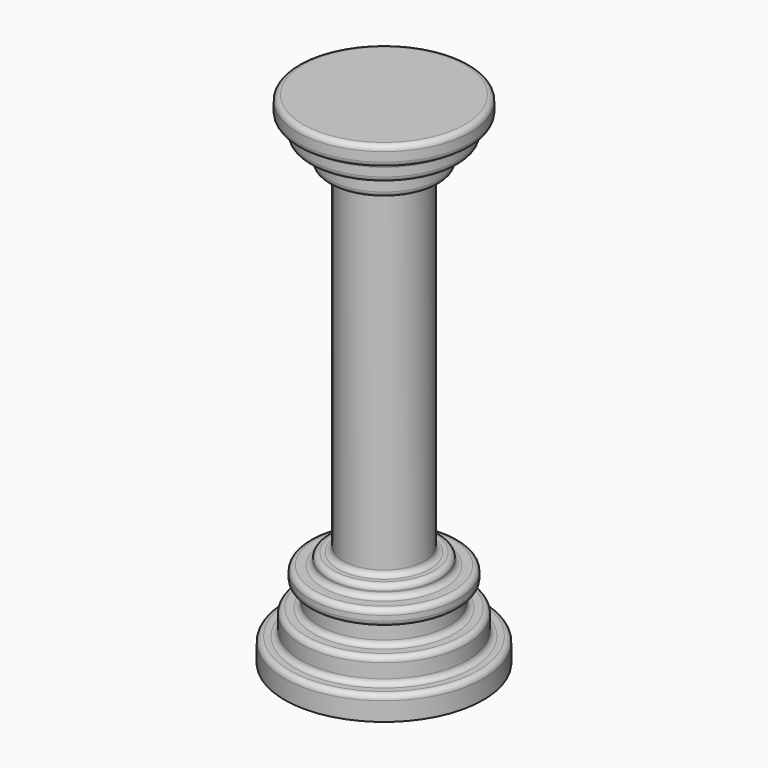
from build123d import *

# Parameters (mm, degrees)
F2_W     = 1.286267
F2_H     = 75.477414
F2_W_2   = 1.280746
F2_H_2   = 75.511615
F2_W_3   = 1.286266
F2_H_3   = 75.496822
F2_H_4   = 75.49404
F2_H_5   = 75.518996
F2_H_6   = 75.542745
F3_DEPTH = 21.082


with BuildPart() as f1:
    # F0 (on Right) → F1 (revolve)
    with BuildSketch(Plane.YZ):
        with BuildLine():
            Line((0, -63.062064), (0, -56.361724))
            Line((0, -56.361724), (0, 43.267588))
            Line((0, 43.267588), (0, 55.967588))
            Line((0, 55.967588), (-12.7, 55.967588))
            Line((-12.7, 55.967588), (-19.225174, 55.967588))
            ThreePointArc((-19.225174, 55.967588), (-20.1232, 55.595614), (-20.495174, 54.697588))
            Line((-20.495174, 54.697588), (-20.495174, 52.507926))
            ThreePointArc((-20.495174, 52.507926), (-20.1232, 51.6099), (-19.225174, 51.237926))
            Line((-19.225174, 51.237926), (-19.006209, 51.237926))
            ThreePointArc((-19.006209, 51.237926), (-18.108183, 50.865951), (-17.736209, 49.967926))
            Line((-17.736209, 49.967926), (-17.736209, 47.975343))
            ThreePointArc((-17.736209, 47.975343), (-17.364234, 47.077317), (-16.466209, 46.705343))
            Line((-16.466209, 46.705343), (-14.473621, 46.705343))
            ThreePointArc((-14.473621, 46.705343), (-13.575595, 46.333368), (-13.203621, 45.435343))
            Line((-13.203621, 45.435343), (-13.203621, 42.457413))
            ThreePointArc((-13.203621, 42.457413), (-12.831647, 41.559387), (-11.933621, 41.187413))
            Line((-11.933621, 41.187413), (-10.926379, 41.187413))
            ThreePointArc((-10.926379, 41.187413), (-10.028353, 40.815439), (-9.656379, 39.917413))
            Line((-9.656379, 39.917413), (-9.656379, -38.537931))
            ThreePointArc((-9.656379, -38.537931), (-10.028353, -39.435956), (-10.926379, -39.807931))
            Line((-10.926379, -39.807931), (-11.933621, -39.807931))
            ThreePointArc((-11.933621, -39.807931), (-12.831647, -40.179905), (-13.203621, -41.077931))
            Line((-13.203621, -41.077931), (-13.203621, -41.296895))
            ThreePointArc((-13.203621, -41.296895), (-13.575595, -42.194921), (-14.473621, -42.566895))
            Line((-14.473621, -42.566895), (-16.466209, -42.566895))
            ThreePointArc((-16.466209, -42.566895), (-17.364234, -42.93887), (-17.736209, -43.836895))
            Line((-17.736209, -43.836895), (-17.736209, -45.041207))
            ThreePointArc((-17.736209, -45.041207), (-17.364234, -45.939233), (-16.466209, -46.311207))
            Line((-16.466209, -46.311207), (-15.469915, -46.311207))
            Line((-15.469915, -46.311207), (-15.469915, -50.165001))
            ThreePointArc((-15.469915, -50.165001), (-15.841889, -51.063027), (-16.739915, -51.435001))
            Line((-16.739915, -51.435001), (-18.436897, -51.435001))
            ThreePointArc((-18.436897, -51.435001), (-19.334923, -51.806976), (-19.706897, -52.705001))
            Line((-19.706897, -52.705001), (-19.706897, -56.07707))
            ThreePointArc((-19.706897, -56.07707), (-20.078872, -56.975096), (-20.976897, -57.34707))
            Line((-20.976897, -57.34707), (-22.378277, -57.34707))
            ThreePointArc((-22.378277, -57.34707), (-23.276303, -57.719045), (-23.648277, -58.61707))
            Line((-23.648277, -58.61707), (-23.648277, -63.062064))
            Line((-23.648277, -63.062064), (0, -63.062064))
        make_face()
    revolve(axis=Axis((0, 0, -6.547068), (0, 0, 1)))

    # F2 (on Right) → F3 (cut)
    with BuildSketch(Plane.YZ):
        with Locations((-6.451351, 0.689741)):
            Rectangle(F2_W, F2_H)
        with Locations((-3.74155, 0.675296)):
            Rectangle(F2_W_2, F2_H_2)
        with Locations((-1.228874, 0.67542)):
            Rectangle(F2_W_3, F2_H_3)
        with Locations((1.424333, 0.670795)):
            Rectangle(F2_W, F2_H_4)
        with Locations((4.131373, 0.690269)):
            Rectangle(F2_W_3, F2_H_5)
        with Locations((6.646809, 0.671121)):
            Rectangle(F2_W_3, F2_H_6)
    extrude(amount=-F3_DEPTH, mode=Mode.SUBTRACT)


solid = f1.part
